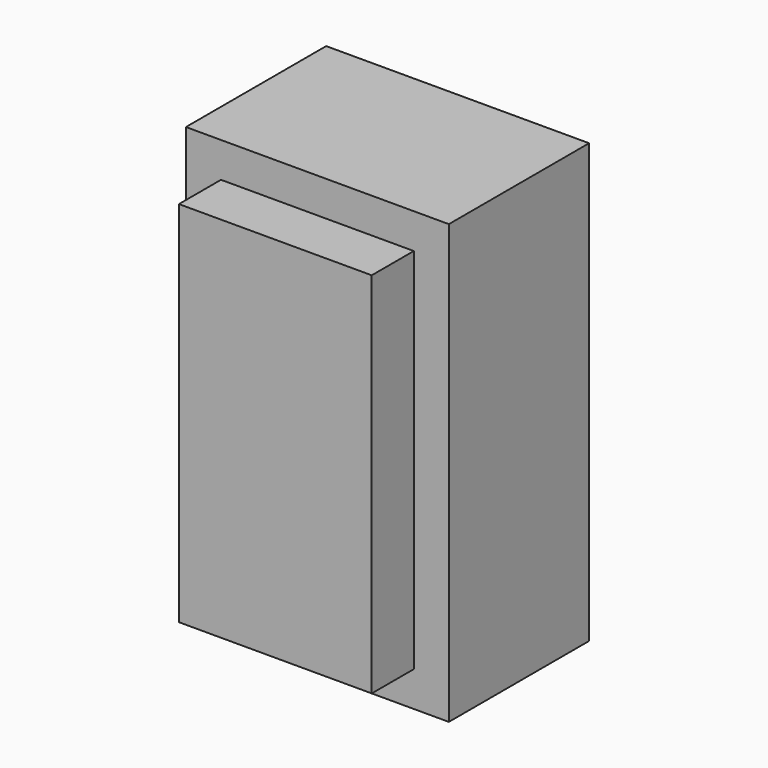
from build123d import *

# Parameters (mm, degrees)
BOX023_W                  = 11
BOX023_H                  = 7
BOX023_DEPTH              = 21
BOX022_W                  = 15
BOX022_H                  = 10
BOX022_DEPTH              = 25
FUSION004_PLACEMENT_ANGLE = 180


with BuildPart() as box023:
    # Box023 → Box023 (new body)
    with BuildSketch(Plane(origin=(227, 236, 227), x_dir=(1, 0, 0), z_dir=(0, 0, 1))):
        with Locations((5.5, 3.5)):
            Rectangle(BOX023_W, BOX023_H)
    extrude(amount=BOX023_DEPTH)


with BuildPart() as dc_plug_switch:
    # Box022 → Box022 (new body)
    with BuildSketch(Plane(origin=(225, 230, 225), x_dir=(1, 0, 0), z_dir=(0, 0, 1))):
        with Locations((7.5, 5)):
            Rectangle(BOX022_W, BOX022_H)
    extrude(amount=BOX022_DEPTH)

    # Fusion004: union Box023
    add(box023.part)


with BuildPart() as dc_plug_switch_1:
    # Fusion004 placement: moved
    add(dc_plug_switch.part.moved(Location((450, 238, -90))).rotate(Axis((450, 238, -90), (0, 0, 1)), FUSION004_PLACEMENT_ANGLE))


solid = dc_plug_switch_1.part
